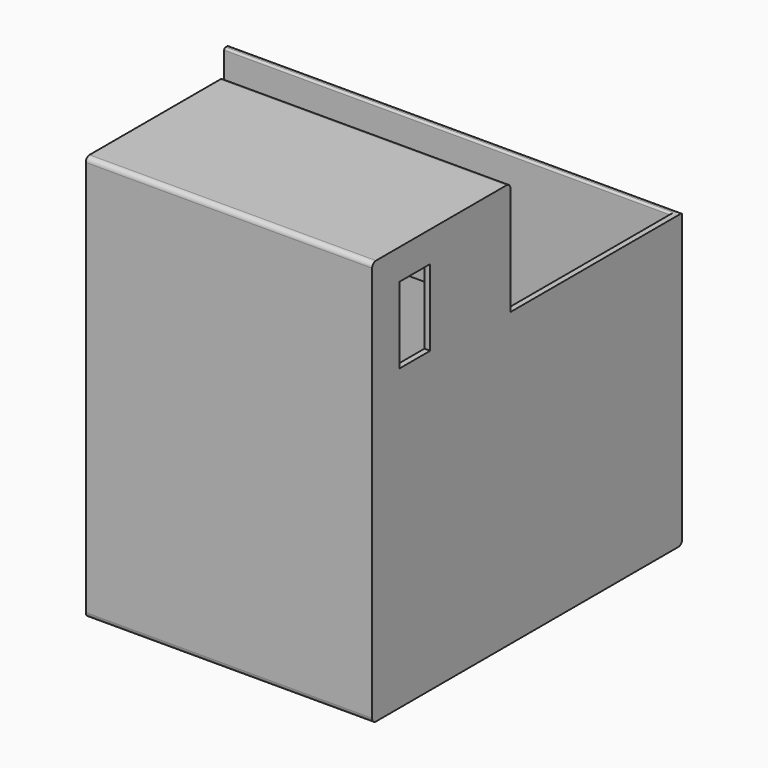
from build123d import *

# Parameters (mm, degrees)
SKETCH_W     = 60
SKETCH_H     = 85
PAD_DEPTH    = 1.2
SKETCH002_W  = 60
SKETCH002_H  = 1.2
PAD001_DEPTH = 80
SKETCH003_W  = 60
SKETCH003_H  = 1.2
PAD002_DEPTH = 60
SKETCH004_W  = 60
SKETCH004_H  = 1.2
PAD003_DEPTH = 35
SKETCH006_W  = 60
SKETCH006_H  = 2.4
PAD004_DEPTH = 4
SKETCH005_W  = 11.7
SKETCH005_H  = 2.4
PAD005_DEPTH = 18.6
SKETCH007_W  = 17
SKETCH007_H  = 0.8
PAD006_DEPTH = 36.6
SKETCH009_W  = 61.2
SKETCH009_H  = 1.2
PAD007_DEPTH = 35
SKETCH010_W  = 1.2
SKETCH010_H  = 60
PAD008_DEPTH = 78.8
SKETCH011_W  = 1.2
SKETCH011_H  = 22.6
PAD009_DEPTH = 32.6
FILLET_R     = 1
FILLET001_R  = 1
FILLET002_R  = 1
FILLET003_R  = 1
FILLET004_R  = 1
FILLET005_R  = 1
FILLET006_R  = 1
FILLET007_R  = 1
FILLET008_R  = 1
FILLET009_R  = 1
FILLET010_R  = 1
FILLET011_R  = 1
FILLET012_R  = 1
FILLET013_R  = 1
FILLET014_R  = 0.4
FILLET015_R  = 0.4
SKETCH012_W  = 16
SKETCH012_H  = 8
POCKET_DEPTH = 95.001


with BuildPart() as part:
    # Sketch → Pad (new body)
    with BuildSketch(Plane.XZ):
        Rectangle(SKETCH_W, SKETCH_H)
    extrude(amount=PAD_DEPTH)

    # Sketch002 (on Face5 of Pad) → Pad001 (join)
    with BuildSketch(Plane(origin=(0, 0, 0), x_dir=(1, 0, 0), z_dir=(0, 1, 0))):
        with Locations((0, 41.9)):
            Rectangle(SKETCH002_W, SKETCH002_H)
    extrude(amount=PAD001_DEPTH)

    # Sketch003 (on Face4 of Pad001) → Pad002 (join)
    with BuildSketch(Plane(origin=(0, 0, -41.3), x_dir=(-1, 0, 0), z_dir=(0, 0, 1))):
        with Locations((0, -79.4)):
            Rectangle(SKETCH003_W, SKETCH003_H)
    extrude(amount=PAD002_DEPTH)

    # Sketch004 (on Face2 of Pad002) → Pad003 (join)
    with BuildSketch(Plane(origin=(0, 0, 0), x_dir=(1, 0, 0), z_dir=(0, 1, 0))):
        with Locations((0, -41.9)):
            Rectangle(SKETCH004_W, SKETCH004_H)
    extrude(amount=PAD003_DEPTH)

    # Sketch006 (on Face7 of Pad003) → Pad004 (join)
    with BuildSketch(Plane(origin=(0, 0, 41.3), x_dir=(1, 0, 0), z_dir=(0, 0, -1))):
        with Locations((0, -33.8)):
            Rectangle(SKETCH006_W, SKETCH006_H)
    extrude(amount=PAD004_DEPTH)

    # Sketch005 (on Face11 of Pad004) → Pad005 (join)
    with BuildSketch(Plane(origin=(0, 0, 37.3), x_dir=(1, 0, 0), z_dir=(0, 0, -1))):
        with Locations((24.15, -33.8)):
            Rectangle(SKETCH005_W, SKETCH005_H)
        with Locations((-24.15, -33.8)):
            Rectangle(SKETCH005_W, SKETCH005_H)
    extrude(amount=PAD005_DEPTH)

    # Sketch007 (on Face12 of Pad005) → Pad006 (join)
    with BuildSketch(Plane(origin=(-18.3, 0, 0), x_dir=(0, 0, 1), z_dir=(1, 0, 0))):
        with Locations((28, -33.8)):
            Rectangle(SKETCH007_W, SKETCH007_H)
    extrude(amount=PAD006_DEPTH)

    # Sketch009 (on Face2 of Pad006) → Pad007 (join)
    with BuildSketch(Plane(origin=(-30, 0, 0), x_dir=(0, 0, -1), z_dir=(-1, 0, 0))):
        with Locations((11.9, -79.4)):
            Rectangle(SKETCH009_W, SKETCH009_H)
    extrude(amount=PAD007_DEPTH)

    # Sketch010 (on Face22 of Pad007) → Pad008 (join)
    with BuildSketch(Plane.XZ.offset(-78.8)):
        with Locations((29.4, -11.3)):
            Rectangle(SKETCH010_W, SKETCH010_H)
    extrude(amount=PAD008_DEPTH)

    # Sketch011 (on Face9 of Pad008) → Pad009 (join)
    with BuildSketch(Plane.XZ.offset(-32.6)):
        with Locations((29.4, 30)):
            Rectangle(SKETCH011_W, SKETCH011_H)
    extrude(amount=PAD009_DEPTH)

    # Fillet
    fillet_edges = [part.edges().sort_by_distance(p)[0] for p in [
        (0, 35, 42.5),
    ]]
    fillet(fillet_edges, radius=FILLET_R)

    # Fillet001
    fillet001_edges = [part.edges().sort_by_distance(p)[0] for p in [
        (0, -1.2, 42.5),
    ]]
    fillet(fillet001_edges, radius=FILLET001_R)

    # Fillet002
    fillet002_edges = [part.edges().sort_by_distance(p)[0] for p in [
        (-0.6, 0, 41.3),
    ]]
    fillet(fillet002_edges, radius=FILLET002_R)

    # Fillet003
    fillet003_edges = [part.edges().sort_by_distance(p)[0] for p in [
        (-0.6, 32.6, 41.3),
    ]]
    fillet(fillet003_edges, radius=FILLET003_R)

    # Fillet004
    fillet004_edges = [part.edges().sort_by_distance(p)[0] for p in [
        (-24.15, 32.6, 18.7),
    ]]
    fillet(fillet004_edges, radius=FILLET004_R)

    # Fillet005
    fillet005_edges = [part.edges().sort_by_distance(p)[0] for p in [
        (-24.15, 35, 18.7),
    ]]
    fillet(fillet005_edges, radius=FILLET005_R)

    # Fillet006
    fillet006_edges = [part.edges().sort_by_distance(p)[0] for p in [
        (23.55, 35, 18.7),
    ]]
    fillet(fillet006_edges, radius=FILLET006_R)

    # Fillet007
    fillet007_edges = [part.edges().sort_by_distance(p)[0] for p in [
        (23.55, 32.6, 18.7),
    ]]
    fillet(fillet007_edges, radius=FILLET007_R)

    # Fillet008
    fillet008_edges = [part.edges().sort_by_distance(p)[0] for p in [
        (0, 32.6, 37.3),
    ]]
    fillet(fillet008_edges, radius=FILLET008_R)

    # Fillet009
    fillet009_edges = [part.edges().sort_by_distance(p)[0] for p in [
        (0, 35, 37.3),
    ]]
    fillet(fillet009_edges, radius=FILLET009_R)

    # Fillet010
    fillet010_edges = [part.edges().sort_by_distance(p)[0] for p in [
        (0, -1.2, -42.5),
    ]]
    fillet(fillet010_edges, radius=FILLET010_R)

    # Fillet011
    fillet011_edges = [part.edges().sort_by_distance(p)[0] for p in [
        (-17.5, 80, -42.5),
    ]]
    fillet(fillet011_edges, radius=FILLET011_R)

    # Fillet012
    fillet012_edges = [part.edges().sort_by_distance(p)[0] for p in [
        (-0.6, 78.8, -41.3),
    ]]
    fillet(fillet012_edges, radius=FILLET012_R)

    # Fillet013
    fillet013_edges = [part.edges().sort_by_distance(p)[0] for p in [
        (-0.6, 0, -41.3),
    ]]
    fillet(fillet013_edges, radius=FILLET013_R)

    # Fillet014
    fillet014_edges = [part.edges().sort_by_distance(p)[0] for p in [
        (-17.5, 80, 18.7),
    ]]
    fillet(fillet014_edges, radius=FILLET014_R)

    # Fillet015
    fillet015_edges = [part.edges().sort_by_distance(p)[0] for p in [
        (-18.1, 78.8, 18.7),
    ]]
    fillet(fillet015_edges, radius=FILLET015_R)

    # Sketch012 (on Face23 of Pad009) → Pocket (cut, through all)
    with BuildSketch(Plane(origin=(30, 0, 0), x_dir=(0, 0, 1), z_dir=(1, 0, 0))):
        with Locations((28.1, -10)):
            Rectangle(SKETCH012_W, SKETCH012_H)
    extrude(amount=-POCKET_DEPTH, mode=Mode.SUBTRACT)


solid = part.part
